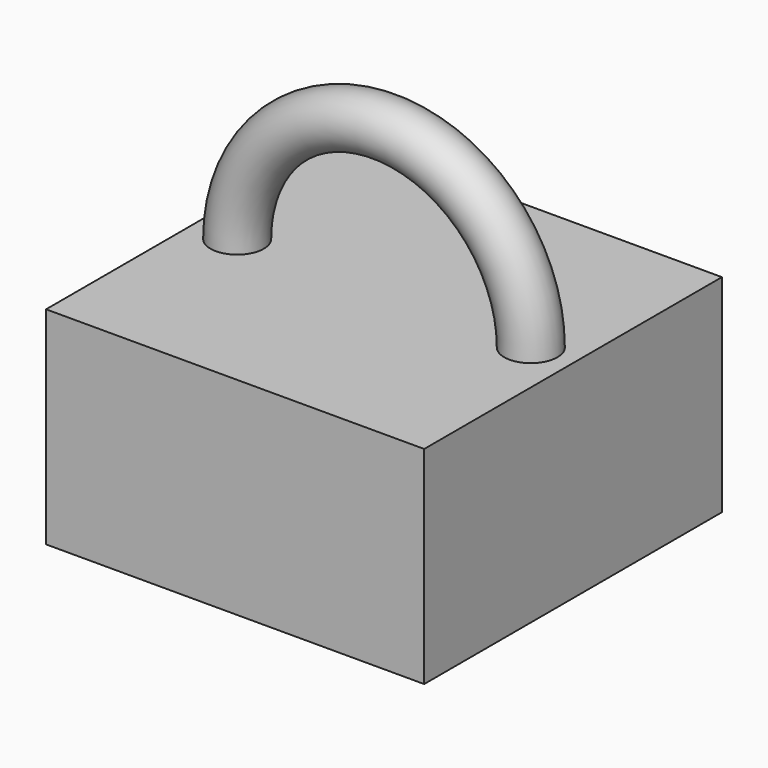
from build123d import *

# Parameters (mm, degrees)
F1_R     = 9.824635
F2_ANGLE = 180.824996
F0_W     = 69.863096
F0_H     = 137.526572
F3_DEPTH = 76.48588


with BuildPart() as f2:
    # F1 (on Top) → F2 (revolve)
    with BuildSketch(Plane.XY):
        with Locations((54.264009, 0)):
            Circle(F1_R)
    revolve(axis=Axis((0, 0, 0), (0, -1, 0)), revolution_arc=F2_ANGLE)

    # F0 (on Top) → F3 (join)
    with BuildSketch(Plane.XY):
        with Locations((-34.931548, 0)):
            Rectangle(F0_W, F0_H)
        with Locations((34.931548, 0)):
            Rectangle(F0_W, F0_H)
    extrude(amount=-F3_DEPTH)


solid = f2.part
